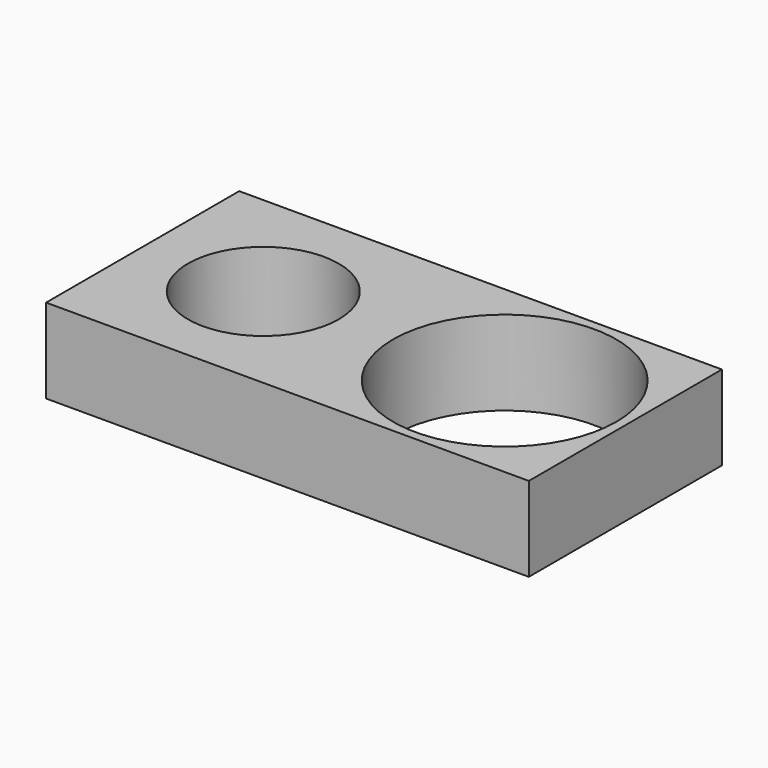
from build123d import *

# Parameters (mm, degrees)
SKETCH_W        = 80
SKETCH_H        = 40
PAD_DEPTH       = 14
SKETCH001_R     = 12.5
POCKET_DEPTH    = 14.001
SKETCH002_R     = 18.5
POCKET001_DEPTH = 14.001


with BuildPart() as part:
    # Sketch → Pad (new body)
    with BuildSketch(Plane.XY):
        with Locations((40, 20)):
            Rectangle(SKETCH_W, SKETCH_H)
    extrude(amount=PAD_DEPTH)

    # Sketch001 (on Face6 of Pad) → Pocket (cut, through all)
    with BuildSketch(Plane.XY.offset(14)):
        with Locations((20, 20)):
            Circle(SKETCH001_R)
    extrude(amount=-POCKET_DEPTH, mode=Mode.SUBTRACT)

    # Sketch002 (on Face5 of Pocket) → Pocket001 (cut, through all)
    with BuildSketch(Plane.XY.offset(14)):
        with Locations((60, 20)):
            Circle(SKETCH002_R)
    extrude(amount=-POCKET001_DEPTH, mode=Mode.SUBTRACT)


solid = part.part
